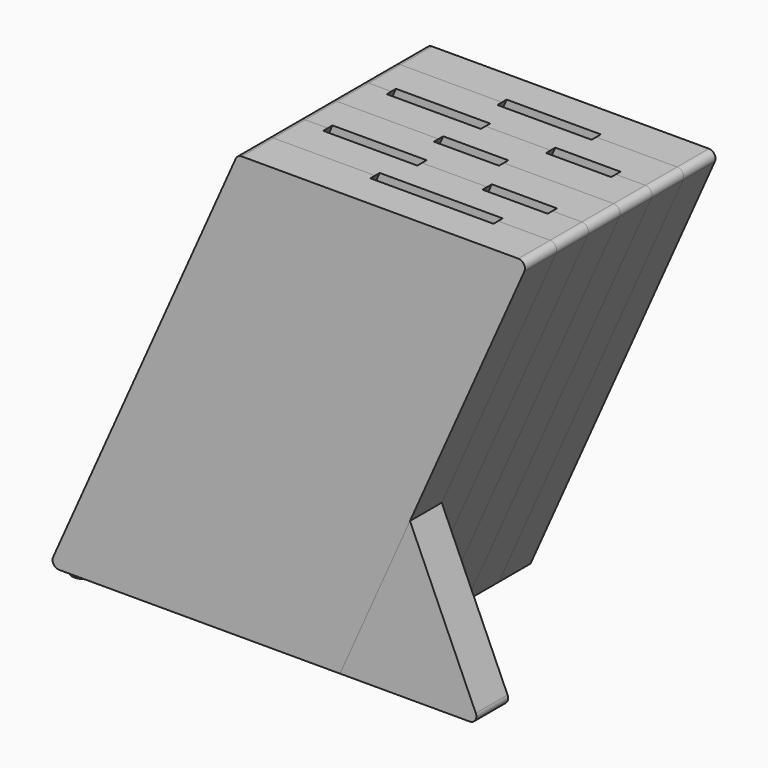
from build123d import *

# Parameters (mm, degrees)
F1_DEPTH  = 19.05
F6_DEPTH  = 19.05
F8_DEPTH  = 19.05
F9_DEPTH  = 19.05
F11_DEPTH = 19.05
F14_DEPTH = 19.05
F16_DEPTH = 2.794
F17_DEPTH = 2.794
F19_DEPTH = 2.794
F20_DEPTH = 2.794
F22_DEPTH = 2.794
F23_DEPTH = 2.794
F25_DEPTH = 2.794
F26_DEPTH = 2.794
F28_DEPTH = 2.794
F29_DEPTH = 2.794
F31_DEPTH = 19.05
F32_R     = 3.175
F32_2_R   = 3.175
F32_3_R   = 3.175
F32_4_R   = 3.175
F32_5_R   = 3.175
F32_6_R   = 3.175
F33_R     = 3.175
F33_2_R   = 3.175
F33_3_R   = 3.175
F33_4_R   = 3.175
F33_5_R   = 3.175
F33_6_R   = 3.175
F34_R     = 6.35
F35_DEPTH = 3.175
F35_TAPER = 5
F36_R     = 3.175
F37_R     = 3.175
F37_2_R   = 3.175
F37_3_R   = 3.175
F37_4_R   = 3.175
F37_5_R   = 3.175
F37_6_R   = 3.175


with BuildPart() as f1:
    # F0 (on Front) → F1 (new body)
    with BuildSketch(Plane.XZ):
        Polygon((-213.6864438653, 0), (-73.9864438653, 0), (16.4840249894, 203.2), (-123.2159750106, 203.2), align=None)
    extrude(amount=F1_DEPTH)

    # F18 (on face) → F20 (cut)
    with BuildSketch(Plane.XZ):
        Polygon((-2.5659750106, 203.2), (-33.8452066689, 203.2), (-124.3156755236, 0), (-93.0364438653, 0), align=None)
        Polygon((-65.1244383272, 203.2), (-110.3055507226, 203.2), (-200.7760195773, 0), (-155.5949071819, 0), align=None)
    extrude(amount=F20_DEPTH, mode=Mode.SUBTRACT)

    # F21 (on face) → F22 (cut)
    with BuildSketch(Plane.XZ.offset(19.05)):
        Polygon((-41.1367433523, 203.2), (-72.4159750106, 203.2), (-162.8864438653, 0), (-131.607212207, 0), align=None)
    extrude(amount=-F22_DEPTH, mode=Mode.SUBTRACT)

    # F32#3
    f32_3_edges = [f1.edges().sort_by_distance(p)[0] for p in [
        (16.484025, -9.525, 203.2),
    ]]
    fillet(f32_3_edges, radius=F32_3_R)

    # F33#3
    f33_3_edges = [f1.edges().sort_by_distance(p)[0] for p in [
        (-123.215975, -9.525, 203.2),
    ]]
    fillet(f33_3_edges, radius=F33_3_R)

    # F37#3
    f37_3_edges = [f1.edges().sort_by_distance(p)[0] for p in [
        (-213.686444, -9.525, 0),
    ]]
    fillet(f37_3_edges, radius=F37_3_R)


with BuildPart() as f6:
    # F5 (on offset) → F6 (new body)
    with BuildSketch(Plane.XZ.offset(19.05)):
        Polygon((-123.2159750106, 203.2), (-213.6864438653, 0), (-73.9864438653, 0), (16.4840249894, 203.2), align=None)
    extrude(amount=F6_DEPTH)

    # F21 (on face) → F23 (cut)
    with BuildSketch(Plane.XZ.offset(19.05)):
        Polygon((-41.1367433523, 203.2), (-72.4159750106, 203.2), (-162.8864438653, 0), (-131.607212207, 0), align=None)
    extrude(amount=F23_DEPTH, mode=Mode.SUBTRACT)

    # F24 (on face) → F25 (cut)
    with BuildSketch(Plane.XZ.offset(38.1)):
        Polygon((-65.1244383272, 203.2), (-110.3055507226, 203.2), (-200.7760195773, 0), (-155.5949071819, 0), align=None)
        Polygon((-2.5659750106, 203.2), (-33.8452066689, 203.2), (-124.3156755236, 0), (-93.0364438653, 0), align=None)
    extrude(amount=-F25_DEPTH, mode=Mode.SUBTRACT)

    # F32#4
    f32_4_edges = [f6.edges().sort_by_distance(p)[0] for p in [
        (16.484025, -28.575, 203.2),
    ]]
    fillet(f32_4_edges, radius=F32_4_R)

    # F33#4
    f33_4_edges = [f6.edges().sort_by_distance(p)[0] for p in [
        (-123.215975, -28.575, 203.2),
    ]]
    fillet(f33_4_edges, radius=F33_4_R)

    # F37#4
    f37_4_edges = [f6.edges().sort_by_distance(p)[0] for p in [
        (-213.686444, -28.575, 0),
    ]]
    fillet(f37_4_edges, radius=F37_4_R)


with BuildPart() as f8:
    # F7 (on offset) → F8 (new body)
    with BuildSketch(Plane.XZ.offset(38.1)):
        Polygon((16.4840249894, 203.2), (-123.2159750106, 203.2), (-213.6864438653, 0), (-73.9864438653, 0), align=None)
    extrude(amount=F8_DEPTH)

    # F24 (on face) → F26 (cut)
    with BuildSketch(Plane.XZ.offset(38.1)):
        Polygon((-2.5659750106, 203.2), (-33.8452066689, 203.2), (-124.3156755236, 0), (-93.0364438653, 0), align=None)
        Polygon((-65.1244383272, 203.2), (-110.3055507226, 203.2), (-200.7760195773, 0), (-155.5949071819, 0), align=None)
    extrude(amount=F26_DEPTH, mode=Mode.SUBTRACT)

    # F27 (on face) → F28 (cut)
    with BuildSketch(Plane.XZ.offset(57.15)):
        Polygon((-13.3329818782, 203.2), (-72.4159750106, 203.2), (-162.8864438653, 0), (-103.8034507329, 0), align=None)
    extrude(amount=-F28_DEPTH, mode=Mode.SUBTRACT)

    # F32#5
    f32_5_edges = [f8.edges().sort_by_distance(p)[0] for p in [
        (16.484025, -47.625, 203.2),
    ]]
    fillet(f32_5_edges, radius=F32_5_R)

    # F33#5
    f33_5_edges = [f8.edges().sort_by_distance(p)[0] for p in [
        (-123.215975, -47.625, 203.2),
    ]]
    fillet(f33_5_edges, radius=F33_5_R)

    # F37#5
    f37_5_edges = [f8.edges().sort_by_distance(p)[0] for p in [
        (-213.686444, -47.625, 0),
    ]]
    fillet(f37_5_edges, radius=F37_5_R)


with BuildPart() as f9:
    # F0 (on Front) → F9 (new body)
    with BuildSketch(Plane.XZ):
        Polygon((-213.6864438653, 0), (-73.9864438653, 0), (16.4840249894, 203.2), (-123.2159750106, 203.2), align=None)
    extrude(amount=-F9_DEPTH)

    # F15 (on face) → F17 (cut)
    with BuildSketch(Plane.XZ.offset(-19.05)):
        Polygon((-27.2348626153, 203.2), (-72.4159750106, 203.2), (-162.8864438653, 0), (-117.70533147, 0), align=None)
    extrude(amount=F17_DEPTH, mode=Mode.SUBTRACT)

    # F18 (on face) → F19 (cut)
    with BuildSketch(Plane.XZ):
        Polygon((-65.1244383272, 203.2), (-110.3055507226, 203.2), (-200.7760195773, 0), (-155.5949071819, 0), align=None)
        Polygon((-2.5659750106, 203.2), (-33.8452066689, 203.2), (-124.3156755236, 0), (-93.0364438653, 0), align=None)
    extrude(amount=-F19_DEPTH, mode=Mode.SUBTRACT)

    # F32#2
    f32_2_edges = [f9.edges().sort_by_distance(p)[0] for p in [
        (16.484025, 9.525, 203.2),
    ]]
    fillet(f32_2_edges, radius=F32_2_R)

    # F33#2
    f33_2_edges = [f9.edges().sort_by_distance(p)[0] for p in [
        (-123.215975, 9.525, 203.2),
    ]]
    fillet(f33_2_edges, radius=F33_2_R)

    # F37#2
    f37_2_edges = [f9.edges().sort_by_distance(p)[0] for p in [
        (-213.686444, 9.525, 0),
    ]]
    fillet(f37_2_edges, radius=F37_2_R)


with BuildPart() as f11:
    # F10 (on offset) → F11 (new body)
    with BuildSketch(Plane.XZ.offset(-19.05)):
        Polygon((-213.6864438653, 0), (-73.9864438653, 0), (16.4840249894, 203.2), (-123.2159750106, 203.2), align=None)
    extrude(amount=-F11_DEPTH)

    # F15 (on face) → F16 (cut)
    with BuildSketch(Plane.XZ.offset(-19.05)):
        Polygon((-27.2348626153, 203.2), (-72.4159750106, 203.2), (-162.8864438653, 0), (-117.70533147, 0), align=None)
    extrude(amount=-F16_DEPTH, mode=Mode.SUBTRACT)

    # F32
    f32_edges = [f11.edges().sort_by_distance(p)[0] for p in [
        (16.484025, 28.575, 203.2),
    ]]
    fillet(f32_edges, radius=F32_R)

    # F33
    f33_edges = [f11.edges().sort_by_distance(p)[0] for p in [
        (-123.215975, 28.575, 203.2),
    ]]
    fillet(f33_edges, radius=F33_R)

    # F37
    f37_edges = [f11.edges().sort_by_distance(p)[0] for p in [
        (-213.686444, 28.575, 0),
    ]]
    fillet(f37_edges, radius=F37_R)


with BuildPart() as f14:
    # F13 (on offset) → F14 (new body)
    with BuildSketch(Plane.XZ.offset(57.15)):
        Polygon((-123.2159750106, 203.2), (-213.6864438653, 0), (-73.9864438653, 0), (16.4840249894, 203.2), align=None)
    extrude(amount=F14_DEPTH)

    # F27 (on face) → F29 (cut)
    with BuildSketch(Plane.XZ.offset(57.15)):
        Polygon((-13.3329818782, 203.2), (-72.4159750106, 203.2), (-162.8864438653, 0), (-103.8034507329, 0), align=None)
    extrude(amount=F29_DEPTH, mode=Mode.SUBTRACT)

    # F32#6
    f32_6_edges = [f14.edges().sort_by_distance(p)[0] for p in [
        (16.484025, -66.675, 203.2),
    ]]
    fillet(f32_6_edges, radius=F32_6_R)

    # F33#6
    f33_6_edges = [f14.edges().sort_by_distance(p)[0] for p in [
        (-123.215975, -66.675, 203.2),
    ]]
    fillet(f33_6_edges, radius=F33_6_R)

    # F37#6
    f37_6_edges = [f14.edges().sort_by_distance(p)[0] for p in [
        (-213.686444, -66.675, 0),
    ]]
    fillet(f37_6_edges, radius=F37_6_R)


with BuildPart() as f31:
    # F30 (on face) → F31 (new body)
    with BuildSketch(Plane.XZ.offset(76.2)):
        Polygon((-40.4103339794, 75.4131775284), (-73.9864438653, 0), (-6.8342240935, 0), align=None)
    extrude(amount=-F31_DEPTH)

    # F36
    f36_edges = [f31.edges().sort_by_distance(p)[0] for p in [
        (-6.834224, -66.675, 0),
    ]]
    fillet(f36_edges, radius=F36_R)


with BuildPart() as f35:
    # F34 (on face) → F35 (new body)
    with BuildSketch(Plane(origin=(0, 0, 0), x_dir=(1, 0, 0), z_dir=(0, 0, -1))):
        with Locations((-204.1614438653, 66.675)):
            Circle(F34_R)
    extrude(amount=F35_DEPTH, taper=F35_TAPER)


solid = Compound([f1.part, f6.part, f8.part, f9.part, f11.part, f14.part, f31.part, f35.part])
